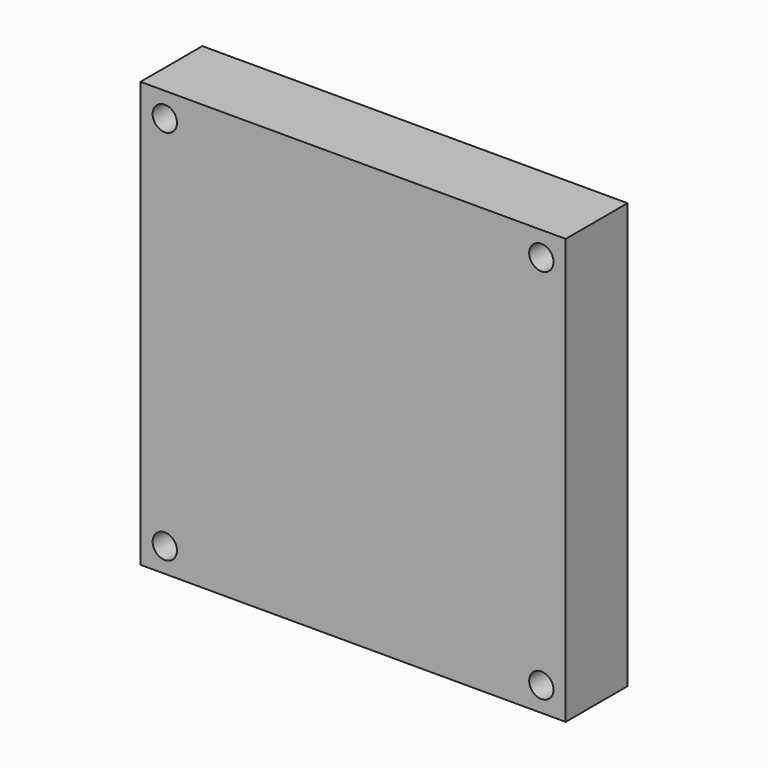
from build123d import *

# Parameters (mm, degrees)
F0_W     = 69.85
F0_H     = 69.85
F0_R     = 2
F3_DEPTH = 12.7
F1_R     = 31.353125
F4_DEPTH = 6.35
F2_R     = 11.1125
F5_DEPTH = 6.35


with BuildPart() as f3:
    # F0 (on Front) → F3 (new body)
    with BuildSketch(Plane.XZ):
        Rectangle(F0_W, F0_H)
        with Locations((-30.925, -30.925)):
            Circle(F0_R, mode=Mode.SUBTRACT)
        with Locations((30.925, -30.925)):
            Circle(F0_R, mode=Mode.SUBTRACT)
        with Locations((-30.925, 30.925)):
            Circle(F0_R, mode=Mode.SUBTRACT)
        with Locations((30.925, 30.925)):
            Circle(F0_R, mode=Mode.SUBTRACT)
    extrude(amount=F3_DEPTH)

    # F1 (on Front) → F4 (cut)
    with BuildSketch(Plane.XZ):
        Circle(F1_R)
    extrude(amount=F4_DEPTH, mode=Mode.SUBTRACT)

    # F2 (on Front) → F5 (join)
    with BuildSketch(Plane.XZ):
        Circle(F2_R)
    extrude(amount=F5_DEPTH)


solid = f3.part
